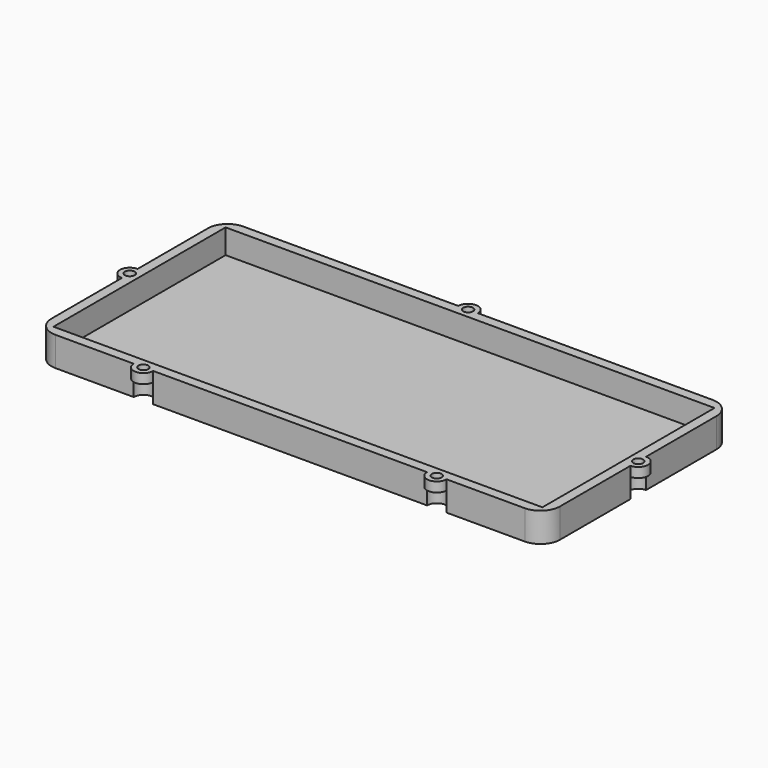
from build123d import *

# Parameters (mm, degrees)
CYLINDER022_R     = 2
CYLINDER022_DEPTH = 6
CYLINDER024_R     = 2
CYLINDER024_DEPTH = 6
CYLINDER023_R     = 2
CYLINDER023_DEPTH = 6
CYLINDER020_R     = 2
CYLINDER020_DEPTH = 6
CYLINDER021_R     = 2
CYLINDER021_DEPTH = 6
CYLINDER014_R     = 1
CYLINDER014_DEPTH = 13
CYLINDER012_R     = 1
CYLINDER012_DEPTH = 13
CYLINDER013_R     = 1
CYLINDER013_DEPTH = 13
CYLINDER011_R     = 1
CYLINDER011_DEPTH = 13
CYLINDER010_R     = 1
CYLINDER010_DEPTH = 13
BOX012_W          = 10
BOX012_H          = 17
BOX012_DEPTH      = 8
BOX010_W          = 10
BOX010_H          = 17
BOX010_DEPTH      = 8
BOX013_W          = 10
BOX013_H          = 17
BOX013_DEPTH      = 8
BOX009_W          = 10
BOX009_H          = 17
BOX009_DEPTH      = 8
BOX008_W          = 10
BOX008_H          = 17
BOX008_DEPTH      = 8
BOX011_W          = 100
BOX011_H          = 44
BOX011_DEPTH      = 16.5
BOX007_W          = 104
BOX007_H          = 48
BOX007_DEPTH      = 6
FILLET001_R       = 4
CYLINDER019_R     = 2
CYLINDER019_DEPTH = 6
CYLINDER018_R     = 2
CYLINDER018_DEPTH = 6
CYLINDER017_R     = 2
CYLINDER017_DEPTH = 6
CYLINDER016_R     = 2
CYLINDER016_DEPTH = 6
CYLINDER015_R     = 2
CYLINDER015_DEPTH = 6


with BuildPart() as cylinder022:
    # Cylinder022 → Cylinder022 (new body)
    with BuildSketch(Plane(origin=(-2, 22, 0), x_dir=(1, 0, 0), z_dir=(0, 0, 1))):
        Circle(CYLINDER022_R)
    extrude(amount=CYLINDER022_DEPTH)


with BuildPart() as cylinder024:
    # Cylinder024 → Cylinder024 (new body)
    with BuildSketch(Plane(origin=(48, 46, 0), x_dir=(1, 0, 0), z_dir=(0, 0, 1))):
        Circle(CYLINDER024_R)
    extrude(amount=CYLINDER024_DEPTH)


with BuildPart() as cylinder023:
    # Cylinder023 → Cylinder023 (new body)
    with BuildSketch(Plane(origin=(102, 22, 0), x_dir=(1, 0, 0), z_dir=(0, 0, 1))):
        Circle(CYLINDER023_R)
    extrude(amount=CYLINDER023_DEPTH)


with BuildPart() as cylinder020:
    # Cylinder020 → Cylinder020 (new body)
    with BuildSketch(Plane(origin=(80, -2, 0), x_dir=(1, 0, 0), z_dir=(0, 0, 1))):
        Circle(CYLINDER020_R)
    extrude(amount=CYLINDER020_DEPTH)


with BuildPart() as fusion005:
    # Cylinder021 → Cylinder021 (new body)
    with BuildSketch(Plane(origin=(20, -2, 0), x_dir=(1, 0, 0), z_dir=(0, 0, 1))):
        Circle(CYLINDER021_R)
    extrude(amount=CYLINDER021_DEPTH)

    # Fusion005: union Cylinder022, Cylinder024, Cylinder023, Cylinder020
    add(cylinder022.part)
    add(cylinder024.part)
    add(cylinder023.part)
    add(cylinder020.part)


with BuildPart() as fusion005_1:
    # Fusion005 placement: moved
    add(fusion005.part.moved(Location((0, 0, -8))))


with BuildPart() as cylinder014:
    # Cylinder014 → Cylinder014 (new body)
    with BuildSketch(Plane(origin=(-2, 22, 0), x_dir=(1, 0, 0), z_dir=(0, 0, 1))):
        Circle(CYLINDER014_R)
    extrude(amount=CYLINDER014_DEPTH)


with BuildPart() as cylinder012:
    # Cylinder012 → Cylinder012 (new body)
    with BuildSketch(Plane(origin=(48, 46, 0), x_dir=(1, 0, 0), z_dir=(0, 0, 1))):
        Circle(CYLINDER012_R)
    extrude(amount=CYLINDER012_DEPTH)


with BuildPart() as cylinder013:
    # Cylinder013 → Cylinder013 (new body)
    with BuildSketch(Plane(origin=(102, 22, 0), x_dir=(1, 0, 0), z_dir=(0, 0, 1))):
        Circle(CYLINDER013_R)
    extrude(amount=CYLINDER013_DEPTH)


with BuildPart() as cylinder011:
    # Cylinder011 → Cylinder011 (new body)
    with BuildSketch(Plane(origin=(80, -2, 0), x_dir=(1, 0, 0), z_dir=(0, 0, 1))):
        Circle(CYLINDER011_R)
    extrude(amount=CYLINDER011_DEPTH)


with BuildPart() as fusion003:
    # Cylinder010 → Cylinder010 (new body)
    with BuildSketch(Plane(origin=(20, -2, 0), x_dir=(1, 0, 0), z_dir=(0, 0, 1))):
        Circle(CYLINDER010_R)
    extrude(amount=CYLINDER010_DEPTH)

    # Fusion003: union Cylinder014, Cylinder012, Cylinder013, Cylinder011
    add(cylinder014.part)
    add(cylinder012.part)
    add(cylinder013.part)
    add(cylinder011.part)


with BuildPart() as fusion003_1:
    # Fusion003 placement: moved
    add(fusion003.part.moved(Location((0, 0, -6))))


with BuildPart() as box012:
    # Box012 → Box012 (new body)
    with BuildSketch(Plane(origin=(1.6, 37, 0), x_dir=(1, 0, 0), z_dir=(0, 0, 1))):
        with Locations((5, 8.5)):
            Rectangle(BOX012_W, BOX012_H)
    extrude(amount=BOX012_DEPTH)


with BuildPart() as box010:
    # Box010 → Box010 (new body)
    with BuildSketch(Plane(origin=(13.8, 37, 0), x_dir=(1, 0, 0), z_dir=(0, 0, 1))):
        with Locations((5, 8.5)):
            Rectangle(BOX010_W, BOX010_H)
    extrude(amount=BOX010_DEPTH)


with BuildPart() as box013:
    # Box013 → Box013 (new body)
    with BuildSketch(Plane(origin=(25.8, 37, 0), x_dir=(1, 0, 0), z_dir=(0, 0, 1))):
        with Locations((5, 8.5)):
            Rectangle(BOX013_W, BOX013_H)
    extrude(amount=BOX013_DEPTH)


with BuildPart() as box009:
    # Box009 → Box009 (new body)
    with BuildSketch(Plane(origin=(58.8, 37, 0), x_dir=(1, 0, 0), z_dir=(0, 0, 1))):
        with Locations((5, 8.5)):
            Rectangle(BOX009_W, BOX009_H)
    extrude(amount=BOX009_DEPTH)


with BuildPart() as box008:
    # Box008 → Box008 (new body)
    with BuildSketch(Plane(origin=(93.8, 42, 0), x_dir=(0, -1, 0), z_dir=(0, 0, 1))):
        with Locations((5, 8.5)):
            Rectangle(BOX008_W, BOX008_H)
    extrude(amount=BOX008_DEPTH)


with BuildPart() as fusion001:
    # Box011 → Box011 (new body)
    with BuildSketch(Plane.XY.offset(-5)):
        with Locations((50, 22)):
            Rectangle(BOX011_W, BOX011_H)
    extrude(amount=BOX011_DEPTH)

    # Fusion001: union Box012, Box010, Box013, Box009, Box008
    add(box012.part)
    add(box010.part)
    add(box013.part)
    add(box009.part)
    add(box008.part)


with BuildPart() as fillet001:
    # Box007 → Box007 (new body)
    with BuildSketch(Plane(origin=(-2, -2, -6), x_dir=(1, 0, 0), z_dir=(0, 0, 1))):
        with Locations((52, 24)):
            Rectangle(BOX007_W, BOX007_H)
    extrude(amount=BOX007_DEPTH)

    # Cut001: cut Fusion001
    add(fusion001.part, mode=Mode.SUBTRACT)

    # Fillet001
    fillet001_edges = [fillet001.edges().sort_by_distance(p)[0] for p in [
        (-2, -2, -3),
        (-2, 46, -3),
        (102, -2, -3),
        (102, 46, -3),
    ]]
    fillet(fillet001_edges, radius=FILLET001_R)


with BuildPart() as cylinder019:
    # Cylinder019 → Cylinder019 (new body)
    with BuildSketch(Plane(origin=(-2, 22, 0), x_dir=(1, 0, 0), z_dir=(0, 0, 1))):
        Circle(CYLINDER019_R)
    extrude(amount=CYLINDER019_DEPTH)


with BuildPart() as cylinder018:
    # Cylinder018 → Cylinder018 (new body)
    with BuildSketch(Plane(origin=(48, 46, 0), x_dir=(1, 0, 0), z_dir=(0, 0, 1))):
        Circle(CYLINDER018_R)
    extrude(amount=CYLINDER018_DEPTH)


with BuildPart() as cylinder017:
    # Cylinder017 → Cylinder017 (new body)
    with BuildSketch(Plane(origin=(102, 22, 0), x_dir=(1, 0, 0), z_dir=(0, 0, 1))):
        Circle(CYLINDER017_R)
    extrude(amount=CYLINDER017_DEPTH)


with BuildPart() as cylinder016:
    # Cylinder016 → Cylinder016 (new body)
    with BuildSketch(Plane(origin=(80, -2, 0), x_dir=(1, 0, 0), z_dir=(0, 0, 1))):
        Circle(CYLINDER016_R)
    extrude(amount=CYLINDER016_DEPTH)


with BuildPart() as cut008:
    # Cylinder015 → Cylinder015 (new body)
    with BuildSketch(Plane(origin=(20, -2, 0), x_dir=(1, 0, 0), z_dir=(0, 0, 1))):
        Circle(CYLINDER015_R)
    extrude(amount=CYLINDER015_DEPTH)

    # Fusion004: union Cylinder019, Cylinder018, Cylinder017, Cylinder016
    add(cylinder019.part)
    add(cylinder018.part)
    add(cylinder017.part)
    add(cylinder016.part)


with BuildPart() as cut008_1:
    # Fusion004 placement: moved
    add(cut008.part.moved(Location((0, 0, -6))))

    # Fusion006: union Fillet001
    add(fillet001.part)

    # Cut007: cut Fusion003
    add(fusion003_1.part, mode=Mode.SUBTRACT)

    # Cut008: cut Fusion005
    add(fusion005_1.part, mode=Mode.SUBTRACT)


solid = cut008_1.part
